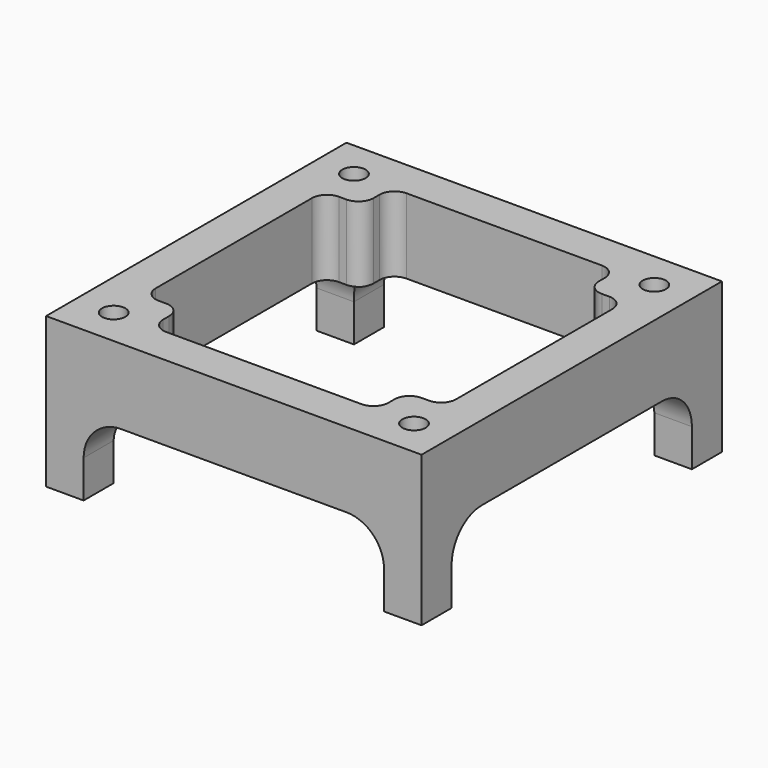
from build123d import *

# Parameters (mm, degrees)
SKETCH187_W     = 50
SKETCH187_H     = 50
PAD032_DEPTH    = 20
POCKET156_DEPTH = 20.001
POCKET157_DEPTH = 50.001
POCKET158_DEPTH = 50.001
SKETCH191_R     = 1.55
POCKET159_DEPTH = 5


with BuildPart() as part:
    # Sketch187 → Pad032 (new body)
    with BuildSketch(Plane.XY):
        Rectangle(SKETCH187_W, SKETCH187_H)
    extrude(amount=PAD032_DEPTH)

    # Sketch188 (on Face6 of Pad032) → Pocket156 (cut, through all)
    with BuildSketch(Plane.XY.offset(20)):
        with BuildLine():
            Line((-18, 15), (-17, 15))
            ThreePointArc((-17, 15), (-15.585786, 15.585786), (-15, 17))
            Line((-15, 17), (-15, 18))
            ThreePointArc((-13, 20), (-14.414214, 19.414214), (-15, 18))
            Line((-13, 20), (13, 20))
            ThreePointArc((15, 18), (14.414214, 19.414214), (13, 20))
            Line((15, 18), (15, 17))
            ThreePointArc((15, 17), (15.585786, 15.585786), (17, 15))
            Line((17, 15), (18, 15))
            ThreePointArc((20, 13), (19.414214, 14.414214), (18, 15))
            Line((20, 13), (20, -13))
            ThreePointArc((18, -15), (19.414214, -14.414214), (20, -13))
            Line((18, -15), (17, -15))
            ThreePointArc((17, -15), (15.585786, -15.585786), (15, -17))
            Line((15, -17), (15, -18))
            ThreePointArc((13, -20), (14.414214, -19.414214), (15, -18))
            Line((13, -20), (-13, -20))
            ThreePointArc((-15, -18), (-14.414214, -19.414214), (-13, -20))
            Line((-15, -18), (-15, -17))
            ThreePointArc((-15, -17), (-15.585786, -15.585786), (-17, -15))
            Line((-17, -15), (-18, -15))
            ThreePointArc((-20, -13), (-19.414214, -14.414214), (-18, -15))
            Line((-20, -13), (-20, 13))
            ThreePointArc((-18, 15), (-19.414214, 14.414214), (-20, 13))
        make_face()
    extrude(amount=-POCKET156_DEPTH, mode=Mode.SUBTRACT)

    # Sketch189 (on Face3 of Pocket156) → Pocket157 (cut, through all)
    with BuildSketch(Plane.YZ.offset(25)):
        with BuildLine():
            Line((-15, 10), (15, 10))
            ThreePointArc((20, 5), (18.535534, 8.535534), (15, 10))
            Line((20, 5), (20, 0))
            Line((20, 0), (-20, 0))
            Line((-20, 0), (-20, 5))
            ThreePointArc((-15, 10), (-18.535534, 8.535534), (-20, 5))
        make_face()
    extrude(amount=-POCKET157_DEPTH, mode=Mode.SUBTRACT)

    # Sketch190 (on Face6 of Pocket156) → Pocket158 (cut, through all)
    with BuildSketch(Plane.XZ.offset(25)):
        with BuildLine():
            Line((-15, 10), (15, 10))
            ThreePointArc((20, 5), (18.535534, 8.535534), (15, 10))
            Line((20, 5), (20, 0))
            Line((20, 0), (-20, 0))
            Line((-20, 0), (-20, 5))
            ThreePointArc((-15, 10), (-18.535534, 8.535534), (-20, 5))
        make_face()
    extrude(amount=-POCKET158_DEPTH, mode=Mode.SUBTRACT)

    # Sketch191 → Pocket159 (cut)
    with BuildSketch(Plane.XY.offset(20)):
        with Locations((-20, 20)):
            Circle(SKETCH191_R)
        with Locations((20, 20)):
            Circle(SKETCH191_R)
        with Locations((20, -20)):
            Circle(SKETCH191_R)
        with Locations((-20, -20)):
            Circle(SKETCH191_R)
    extrude(amount=-POCKET159_DEPTH, mode=Mode.SUBTRACT)


with BuildPart() as part_1:
    # Body033 placement: moved
    add(part.part.moved(Location((85, 85, 0))))


solid = part_1.part
